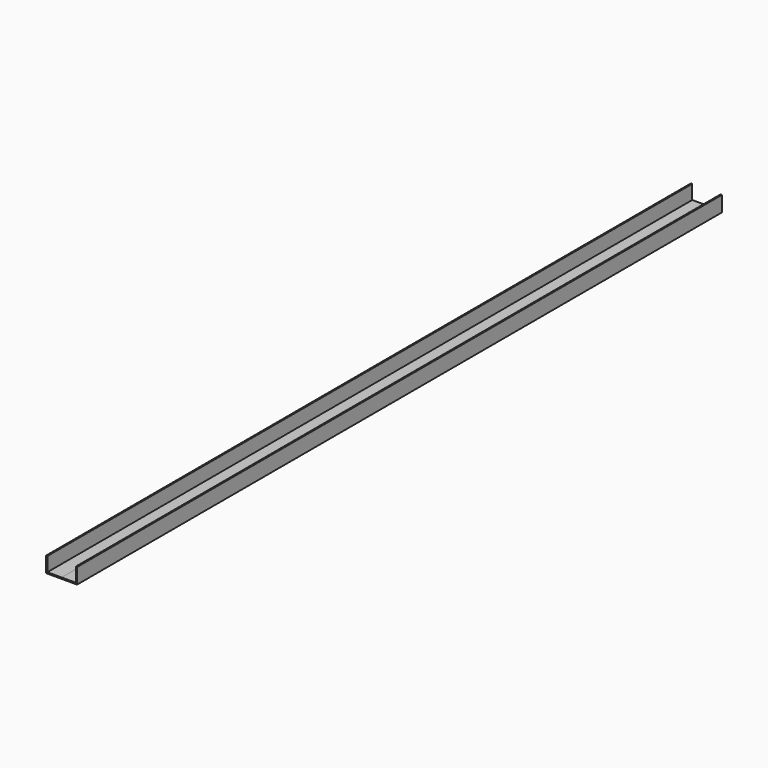
from build123d import *

# Parameters (mm, degrees)
F1_DEPTH = 1981.2


with BuildPart() as f1:
    # F0 (on Front) → F1 (new body)
    with BuildSketch(Plane.XZ):
        Polygon((-98.198516, 51.005271), (-101.373516, 51.005271), (-101.373516, 12.905271), (-63.273516, 12.905271), (-63.273516, 16.080271), (-98.198516, 16.080271), align=None)
    extrude(amount=F1_DEPTH)


with BuildPart() as f2_1:
    # F2: instance of F1
    add(f1.part.mirror(Plane(origin=(-63.273516, -990.6, 14.492771), x_dir=(0, 1, 0), z_dir=(1, 0, 0))))


solid = Compound([f1.part, f2_1.part])
